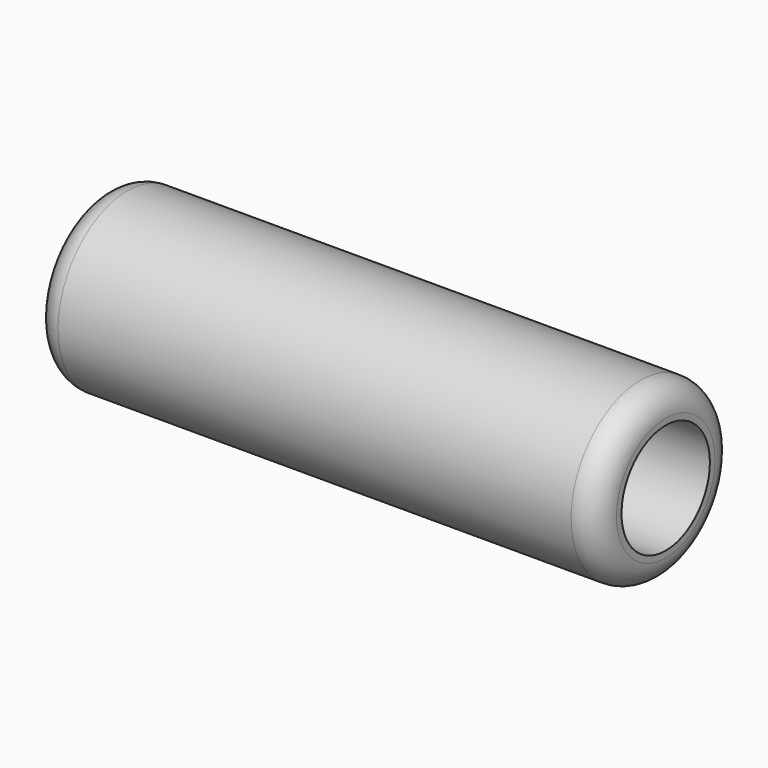
from build123d import *

# Parameters (mm, degrees)
F2_R     = 5.08
F3_R     = 1.5792617016
F4_DEPTH = 25.4


with BuildPart() as f1:
    # F0 (on Front) → F1 (revolve)
    with BuildSketch(Plane.XZ):
        Polygon((-55.6552457488, -4.5627619832), (-55.6552457488, -22.0379619832), (57.8573542512, -22.0379619832), (57.8573542512, -15.6879619832), (-51.8719255924, -15.6879619832), (-51.6928457488, -4.5627619832), align=None)
    revolve(axis=Axis((-53.6740457488, 0, -4.5627619832), (1, 0, 0)))

    # F2
    f2_edges = [f1.edges().sort_by_distance(p)[0] for p in [
        (57.857354, 0, 12.912438),
        (-55.655246, 0, 12.912438),
    ]]
    fillet(f2_edges, radius=F2_R)

    # F3 (on face) → F4 (cut)
    with BuildSketch(Plane(origin=(-55.6552457488, 0, 0), x_dir=(0, -1, 0), z_dir=(-1, 0, 0))):
        with Locations((0, -4.5627619832)):
            Circle(F3_R)
    extrude(amount=-F4_DEPTH, mode=Mode.SUBTRACT)


solid = f1.part
